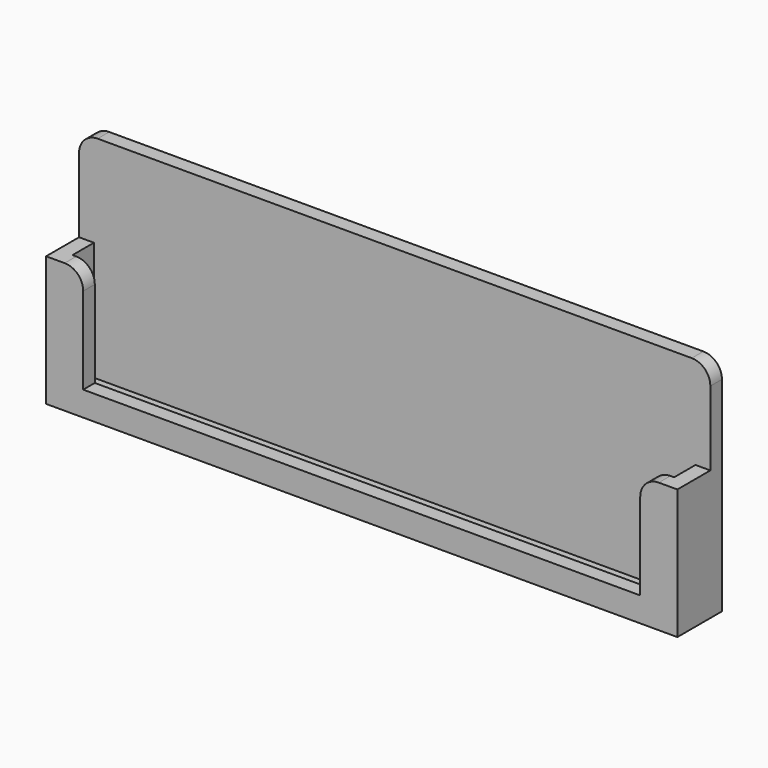
from build123d import *

# Parameters (mm, degrees)
F0_W     = 170
F0_H     = 35
F1_DEPTH = 15
F2_W     = 162
F2_H     = 7.2
F3_DEPTH = 32
F4_W     = 170
F4_H     = 3.9
F5_DEPTH = 25
F6_W     = 150
F6_H     = 28.3669353649
F7_DEPTH = 6.3
F8_R     = 5


with BuildPart() as f1:
    # F0 (on Front) → F1 (new body)
    with BuildSketch(Plane.XZ):
        Rectangle(F0_W, F0_H)
    extrude(amount=F1_DEPTH)

    # F2 (on face) → F3 (cut)
    with BuildSketch(Plane.XY.offset(17.5)):
        with Locations((0, -7.5)):
            Rectangle(F2_W, F2_H)
    extrude(amount=-F3_DEPTH, mode=Mode.SUBTRACT)

    # F4 (on face) → F5 (join)
    with BuildSketch(Plane.XY.offset(17.5)):
        with Locations((0, -1.95)):
            Rectangle(F4_W, F4_H)
    extrude(amount=F5_DEPTH)

    # F6 (on face) → F7 (cut)
    with BuildSketch(Plane.XZ.offset(15)):
        with Locations((0, 3.3165323175)):
            Rectangle(F6_W, F6_H)
    extrude(amount=-F7_DEPTH, mode=Mode.SUBTRACT)

    # F8
    f8_edges = [f1.edges().sort_by_distance(p)[0] for p in [
        (-85, -1.95, 42.5),
        (85, -1.95, 42.5),
        (75, -13.05, 17.5),
        (-75, -13.05, 17.5),
    ]]
    fillet(f8_edges, radius=F8_R)


solid = f1.part
